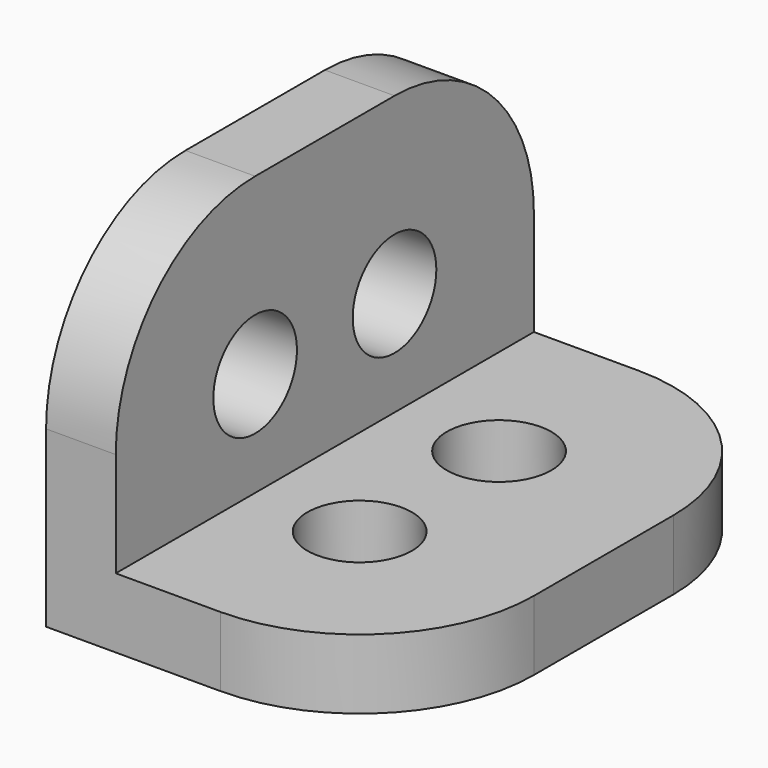
from build123d import *

# Parameters (mm, degrees)
F1_DEPTH = 7.5
F2_R     = 5
F3_R     = 1.5
F4_DEPTH = 5
F5_R     = 1.5
F6_DEPTH = 5


with BuildPart() as f1:
    # F0 (on Front) → F1 (new body, symmetric)
    with BuildSketch(Plane.XZ):
        Polygon((-3, 5), (-5, 5), (-5, -5), (5, -5), (5, -3), (-3, -3), align=None)
    extrude(amount=F1_DEPTH, both=True)

    # F2
    f2_edges = [f1.edges().sort_by_distance(p)[0] for p in [
        (-4, -7.5, 5),
        (-4, 7.5, 5),
        (5, -7.5, -4),
        (5, 7.5, -4),
    ]]
    fillet(f2_edges, radius=F2_R)

    # F3 (on Right) → F4 (cut)
    with BuildSketch(Plane.YZ):
        with Locations((-2.5, 0)):
            Circle(F3_R)
        with Locations((2.5, 0)):
            Circle(F3_R)
    extrude(amount=-F4_DEPTH, mode=Mode.SUBTRACT)

    # F5 (on Top) → F6 (cut)
    with BuildSketch(Plane.XY):
        with Locations((0, 2.5)):
            Circle(F5_R)
        with Locations((0, -2.5)):
            Circle(F5_R)
    extrude(amount=-F6_DEPTH, mode=Mode.SUBTRACT)


solid = f1.part
